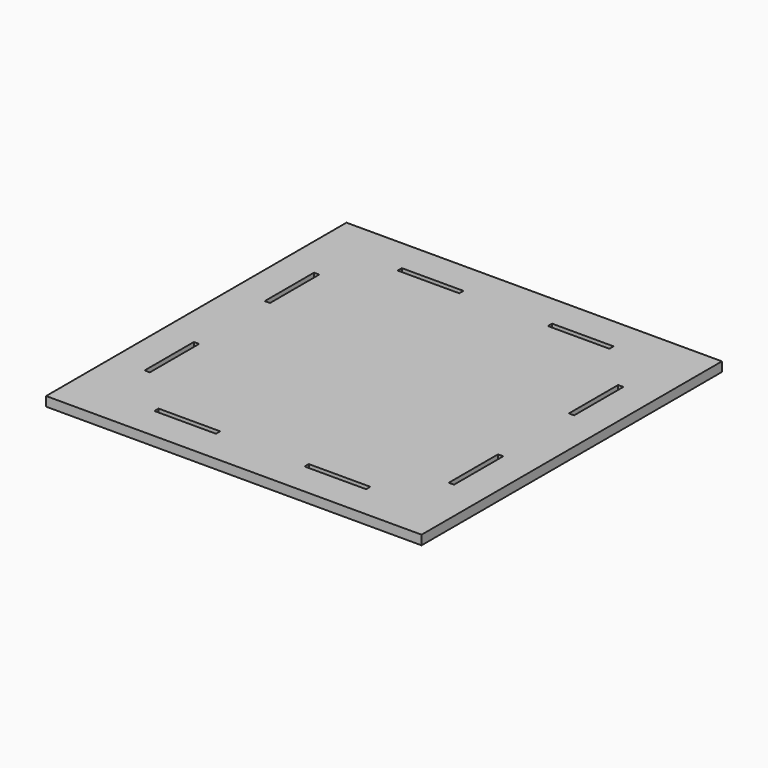
from build123d import *

# Parameters (mm, degrees)
F0_W     = 127
F0_H     = 127
F0_W_2   = 20.828
F0_H_2   = 1.778
F0_W_3   = 1.778
F0_H_3   = 20.828
F1_DEPTH = 3.175


with BuildPart() as f1:
    # F0 (on Top) → F1 (new body)
    with BuildSketch(Plane.XY):
        Rectangle(F0_W, F0_H)
        with Locations((-25.4, -51.435)):
            Rectangle(F0_W_2, F0_H_2, mode=Mode.SUBTRACT)
        with Locations((-51.435, -25.4)):
            Rectangle(F0_W_3, F0_H_3, mode=Mode.SUBTRACT)
        with Locations((25.4, -51.435)):
            Rectangle(F0_W_2, F0_H_2, mode=Mode.SUBTRACT)
        with Locations((51.435, -25.4)):
            Rectangle(F0_W_3, F0_H_3, mode=Mode.SUBTRACT)
        with Locations((-51.435, 25.4)):
            Rectangle(F0_W_3, F0_H_3, mode=Mode.SUBTRACT)
        with Locations((-25.4, 51.435)):
            Rectangle(F0_W_2, F0_H_2, mode=Mode.SUBTRACT)
        with Locations((51.435, 25.4)):
            Rectangle(F0_W_3, F0_H_3, mode=Mode.SUBTRACT)
        with Locations((25.4, 51.435)):
            Rectangle(F0_W_2, F0_H_2, mode=Mode.SUBTRACT)
    extrude(amount=F1_DEPTH)


solid = f1.part
